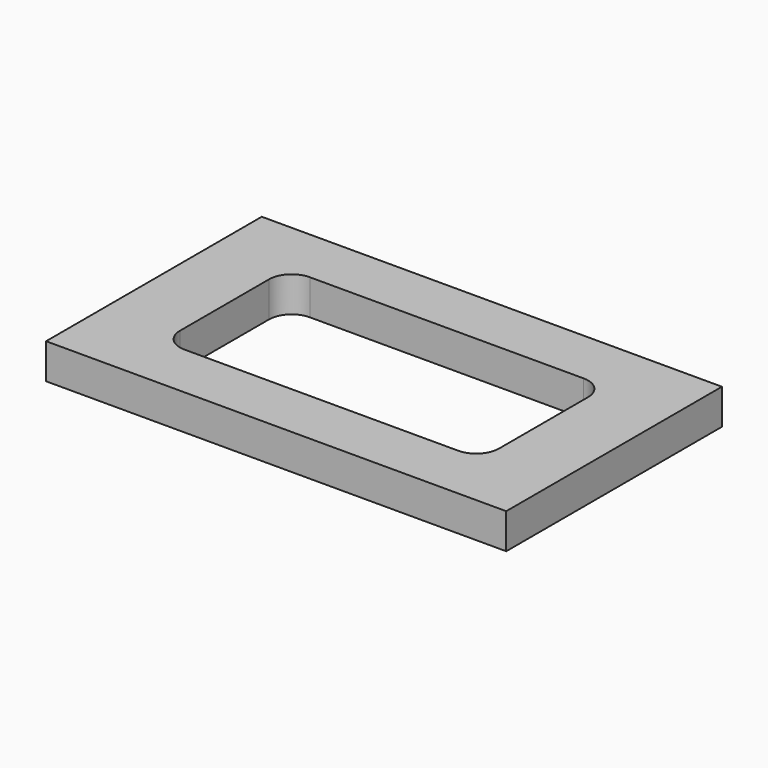
from build123d import *

# Parameters (mm, degrees)
F1_W     = 163
F1_H     = 95.5
F2_DEPTH = 12.5


with BuildPart() as f2:
    # F1 (on Top) → F2 (new body)
    with BuildSketch(Plane.XY):
        Rectangle(F1_W, F1_H)
        with BuildLine():
            ThreePointArc((-56.5, 19.75), (-54.1568542495, 25.4068542495), (-48.5, 27.75))
            Line((-48.5, 27.75), (48.5, 27.75))
            ThreePointArc((48.5, 27.75), (54.1568542495, 25.4068542495), (56.5, 19.75))
            Line((56.5, 19.75), (56.5, -19.75))
            ThreePointArc((56.5, -19.75), (54.1568542495, -25.4068542495), (48.5, -27.75))
            Line((48.5, -27.75), (-48.5, -27.75))
            ThreePointArc((-48.5, -27.75), (-54.1568542495, -25.4068542495), (-56.5, -19.75))
            Line((-56.5, -19.75), (-56.5, 19.75))
        make_face(mode=Mode.SUBTRACT)
    extrude(amount=-F2_DEPTH)


solid = f2.part
